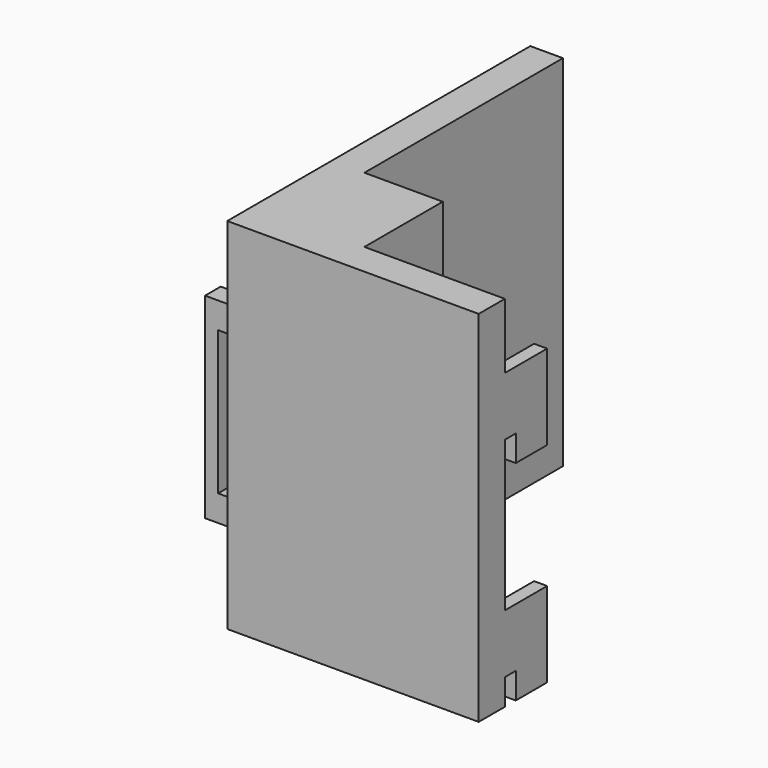
from build123d import *

# Parameters (mm, degrees)
PAD_DEPTH              = 55
PAD003_DEPTH           = 2
SKETCH005_W            = 5
SKETCH005_H            = 55
PAD004_DEPTH           = 9.5
LINEARPATTERN_COUNT    = 2
LINEARPATTERN_PITCH    = 11.5
PAD005_DEPTH           = 3
LINEARPATTERN001_COUNT = 3
LINEARPATTERN001_PITCH = 25


with BuildPart() as part:
    # Sketch004 → Pad (new body)
    with BuildSketch(Plane.XY):
        Polygon((0, -5), (-25, -5), (-25, 53), (-20, 53), (-20, 15), (-8, 15), (-8, 0), (0, 0), align=None)
    extrude(amount=-PAD_DEPTH)

    # Sketch (on Face8 of Pad) → Pad003 (join)
    with BuildSketch(Plane.YZ):
        Polygon((-5, -55), (0, -55), (0, -51), (2.1, -51), (2.1, -55), (8.1, -55), (8.1, -42), (0, -42), (0, -19), (2.1, -19), (2.1, -23), (8.1, -23), (8.1, -10), (0, -10), (0, 0), (-5, 0), align=None)
    pad003 = extrude(amount=PAD003_DEPTH)

    # Sketch005 (on Face8 of Pad003) → Pad004 (join)
    with BuildSketch(Plane.YZ.offset(2)):
        with Locations((-2.5, -27.5)):
            Rectangle(SKETCH005_W, SKETCH005_H)
    extrude(amount=PAD004_DEPTH)

    # LinearPattern: Pad003 ×2
    with Locations(*[(i * LINEARPATTERN_PITCH, 0, 0) for i in range(1, LINEARPATTERN_COUNT)]):
        add(pad003)

    # Sketch006 (on DatumPlane) → Pad005 (join)
    with BuildSketch(Plane.XZ):
        Polygon((-25, -12.5), (-30, -12.5), (-30, -42.5), (-25, -42.5), (-25, -38.5), (-28, -38.5), (-28, -16.5), (-25, -16.5), align=None)
    pad005 = extrude(amount=PAD005_DEPTH)

    # LinearPattern001: Pad005 ×3
    with Locations(*[(0, i * LINEARPATTERN001_PITCH, 0) for i in range(1, LINEARPATTERN001_COUNT)]):
        add(pad005)


solid = part.part
